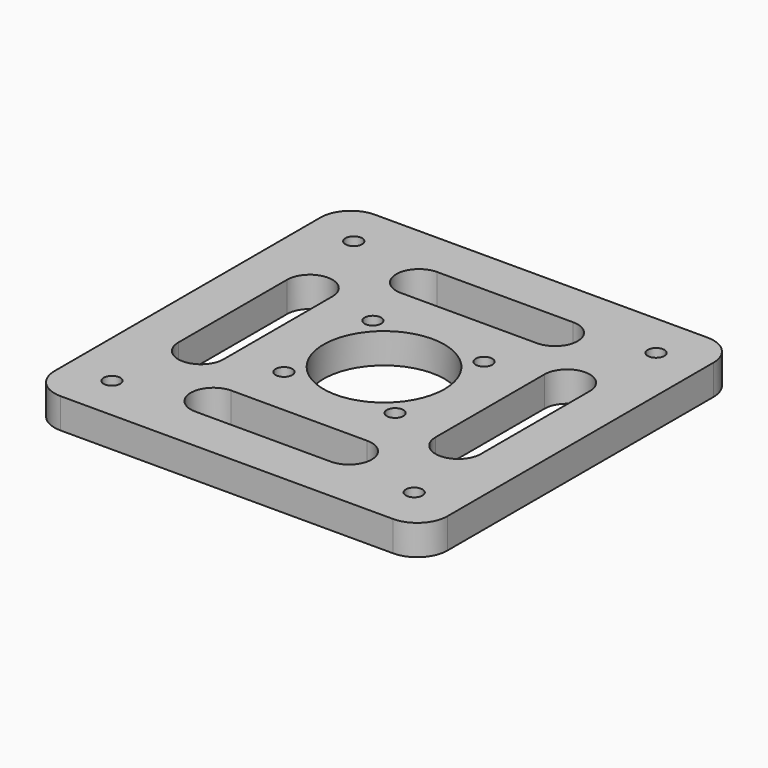
from build123d import *

# Parameters (mm, degrees)
F0_R     = 2.75
F0_R_2   = 20
F1_DEPTH = 10


with BuildPart() as f1:
    # F0 (on Top) → F1 (new body)
    with BuildSketch(Plane.XY):
        with BuildLine():
            Line((-55, -65), (55, -65))
            ThreePointArc((55, -65), (62.071068, -62.071068), (65, -55))
            Line((65, -55), (65, 55))
            ThreePointArc((65, 55), (62.071068, 62.071068), (55, 65))
            Line((55, 65), (-55, 65))
            ThreePointArc((-55, 65), (-62.071068, 62.071068), (-65, 55))
            Line((-65, 55), (-65, -55))
            ThreePointArc((-65, -55), (-62.071068, -62.071068), (-55, -65))
        make_face()
        with Locations((-50, -50)):
            Circle(F0_R, mode=Mode.SUBTRACT)
        with BuildLine():
            Line((-22.580764, -35), (22.419236, -35))
            ThreePointArc((22.419236, -35), (29.919671, -42.420101), (22.580764, -50))
            Line((22.580764, -50), (-22.419236, -50))
            ThreePointArc((-22.419236, -50), (-29.919671, -42.579899), (-22.580764, -35))
        make_face(mode=Mode.SUBTRACT)
        with BuildLine():
            Line((-35, 22.580764), (-35, -22.419236))
            ThreePointArc((-35, -22.419236), (-42.418362, -30.081198), (-50, -22.580764))
            Line((-50, -22.580764), (-50, 22.419236))
            ThreePointArc((-50, 22.419236), (-42.579899, 29.919671), (-35, 22.580764))
        make_face(mode=Mode.SUBTRACT)
        with Locations((-18.384776, -18.384776)):
            Circle(F0_R, mode=Mode.SUBTRACT)
        with Locations((50, -50)):
            Circle(F0_R, mode=Mode.SUBTRACT)
        with Locations((18.384776, -18.384776)):
            Circle(F0_R, mode=Mode.SUBTRACT)
        with Locations((-18.384776, 18.384776)):
            Circle(F0_R, mode=Mode.SUBTRACT)
        with Locations((-50, 50)):
            Circle(F0_R, mode=Mode.SUBTRACT)
        Circle(F0_R_2, mode=Mode.SUBTRACT)
        with Locations((18.384776, 18.384776)):
            Circle(F0_R, mode=Mode.SUBTRACT)
        with BuildLine():
            Line((50, 22.419236), (50, -22.580764))
            ThreePointArc((50, -22.580764), (42.420101, -29.919671), (35, -22.419236))
            Line((35, -22.419236), (35, 22.580764))
            ThreePointArc((35, 22.580764), (42.581638, 30.081198), (50, 22.419236))
        make_face(mode=Mode.SUBTRACT)
        with BuildLine():
            ThreePointArc((22.580764, 50), (30.081198, 42.418362), (22.419236, 35))
            Line((22.419236, 35), (-22.580764, 35))
            ThreePointArc((-22.580764, 35), (-29.919671, 42.579899), (-22.419236, 50))
            Line((-22.419236, 50), (22.580764, 50))
        make_face(mode=Mode.SUBTRACT)
        with Locations((50, 50)):
            Circle(F0_R, mode=Mode.SUBTRACT)
    extrude(amount=F1_DEPTH)


solid = f1.part
